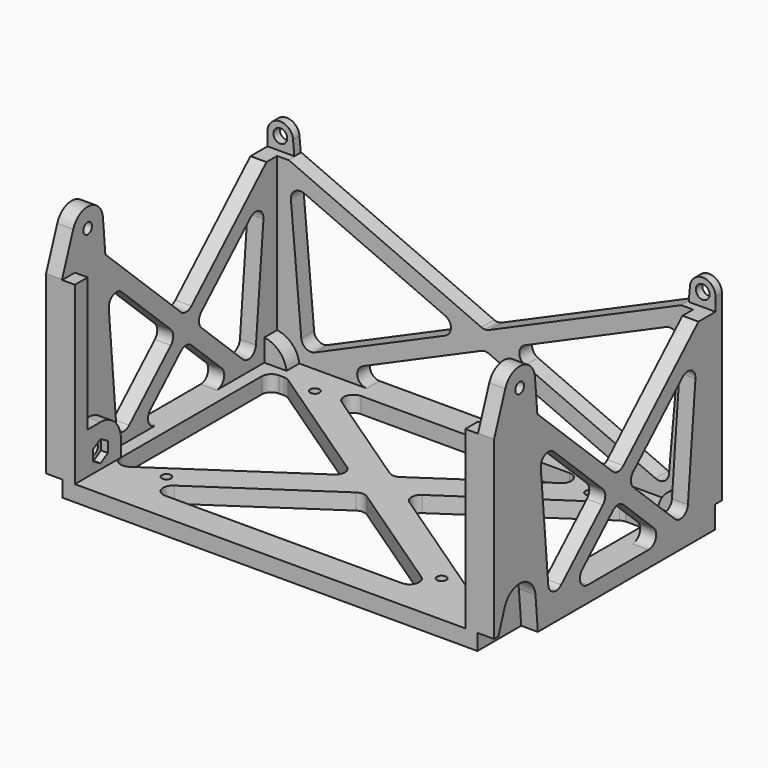
from build123d import *

# Parameters (mm, degrees)
SKETCH_W        = 110
SKETCH_H        = 84
PAD_DEPTH       = 5
SKETCH001_R     = 1.45
HOLE_DEPTH      = 5.001
SKETCH002_W     = 84
SKETCH002_H     = 5
PAD001_DEPTH    = 10
POCKET_DEPTH    = 5.001
SKETCH005_W     = 84
SKETCH005_H     = 5
PAD002_DEPTH    = 5
SKETCH006_W     = 140
SKETCH006_H     = 5
PAD003_DEPTH    = 5
SKETCH007_W     = 5
SKETCH007_H     = 5
PAD004_DEPTH    = 55
PAD005_DEPTH    = 5
SKETCH010_W     = 4
SKETCH010_H     = 55
PAD006_DEPTH    = 5
PAD007_DEPTH    = 4
POCKET001_DEPTH = 5.2
SKETCH012_R     = 1.7
HOLE001_DEPTH   = 504.9503115489
POCKET002_DEPTH = 2.15
SKETCH014_R     = 1.7
HOLE002_DEPTH   = 371.8003115489
PAD008_DEPTH    = 5
SKETCH016_R     = 2.15
POCKET003_DEPTH = 5
PAD009_DEPTH    = 5
PAD010_DEPTH    = 5
POCKET004_DEPTH = 2.7
SKETCH020_R     = 1.85
PAD011_DEPTH    = 2
SKETCH021_W     = 8.3652340043
SKETCH021_H     = 8
POCKET005_DEPTH = 2.5
PAD012_DEPTH    = 5
PAD013_DEPTH    = 5
SKETCH024_W     = 4
SKETCH024_H     = 5
POCKET006_DEPTH = 0.15
POCKET007_DEPTH = 1.75


with BuildPart() as part:
    # Sketch → Pad (new body)
    with BuildSketch(Plane.XY):
        Rectangle(SKETCH_W, SKETCH_H)
    extrude(amount=PAD_DEPTH)

    # Sketch001 (on Face6 of Pad) → Hole (cut, through all)
    with BuildSketch(Plane.XY.offset(5)):
        with Locations((-46, 33)):
            Circle(SKETCH001_R)
        with Locations((40, 33)):
            Circle(SKETCH001_R)
        with Locations((40, -25)):
            Circle(SKETCH001_R)
        with Locations((-46, -25)):
            Circle(SKETCH001_R)
    extrude(amount=-HOLE_DEPTH, mode=Mode.SUBTRACT)

    # Sketch002 (on Face2 of Hole) → Pad001 (join)
    with BuildSketch(Plane(origin=(-55, 0, 0), x_dir=(0, -1, 0), z_dir=(-1, 0, 0))):
        with Locations((0, 2.5)):
            Rectangle(SKETCH002_W, SKETCH002_H)
    pad001 = extrude(amount=PAD001_DEPTH)

    # Mirrored: Pad001 across YZ
    add(pad001.mirror(Plane.YZ))

    # Sketch004 → Pocket (cut, through all)
    with BuildSketch(Plane.XY.offset(5)):
        with BuildLine():
            Line((29.5521008829, 38), (-35.5521008829, 38))
            ThreePointArc((-35.5521008829, 38), (-38.421042252, 35.877026465), (-37.2295258877, 32.5127836135))
            Line((-37.2295258877, 32.5127836135), (-4.6774250048, 10.5590411576))
            ThreePointArc((-4.6774250048, 10.5590411576), (-3, 10.0462575441), (-1.3225749952, 10.5590411576))
            Line((31.2295258877, 32.5127836135), (-1.3225749952, 10.5590411576))
            ThreePointArc((31.2295258877, 32.5127836135), (32.421042252, 35.877026465), (29.5521008829, 38))
        make_face()
        with BuildLine():
            Line((-54.7704741123, 33.4872163865), (-14.7359913537, 6.4872163865))
            ThreePointArc((-14.7359913537, 1.5127836135), (-13.4134163585, 4), (-14.7359913537, 6.4872163865))
            Line((-14.7359913537, 1.5127836135), (-56.3225749952, -26.5339820982))
            ThreePointArc((-61, -24.0467657117), (-59.4084965363, -26.6955649693), (-56.3225749952, -26.5339820982))
            Line((-61, 31), (-61, -24.0467657117))
            ThreePointArc((-58, 34), (-60.1213203436, 33.1213203436), (-61, 31))
            Line((-58, 34), (-56.4478991171, 34))
            ThreePointArc((-54.7704741123, 33.4872163865), (-55.5708726521, 33.8689413692), (-56.4478991171, 34))
        make_face()
        with BuildLine():
            Line((48.7704741123, 33.4872163865), (8.7359913537, 6.4872163865))
            ThreePointArc((8.7359913537, 6.4872163865), (7.4134163585, 4), (8.7359913537, 1.5127836135))
            Line((8.7359913537, 1.5127836135), (56.3225749952, -30.5804937261))
            ThreePointArc((56.3225749952, -30.5804937261), (59.4084965363, -30.7420765972), (61, -28.0932773396))
            Line((61, 31), (61, -28.0932773396))
            ThreePointArc((61, 31), (60.1213203436, 33.1213203436), (58, 34))
            Line((50.4478991171, 34), (58, 34))
            ThreePointArc((50.4478991171, 34), (49.5708726521, 33.8689413692), (48.7704741123, 33.4872163865))
        make_face()
        with BuildLine():
            Line((-40.0003767449, -33), (34.0003767449, -33))
            ThreePointArc((34.0003767449, -33), (36.8693181141, -30.877026465), (35.6778017498, -27.5127836135))
            Line((-1.3225749952, -2.5590411576), (35.6778017498, -27.5127836135))
            ThreePointArc((-1.3225749952, -2.5590411576), (-3, -2.0462575441), (-4.6774250048, -2.5590411576))
            Line((-4.6774250048, -2.5590411576), (-41.6778017498, -27.5127836135))
            ThreePointArc((-41.6778017498, -27.5127836135), (-42.8693181141, -30.877026465), (-40.0003767449, -33))
        make_face()
    extrude(amount=-POCKET_DEPTH, mode=Mode.SUBTRACT)

    # Sketch005 (on Face8 of Pocket) → Pad002 (join)
    with BuildSketch(Plane(origin=(-65, 0, 0), x_dir=(0, -1, 0), z_dir=(-1, 0, 0))):
        with Locations((0, 2.5)):
            Rectangle(SKETCH005_W, SKETCH005_H)
    pad002 = extrude(amount=PAD002_DEPTH)

    # Mirrored002: Pad002 across YZ
    add(pad002.mirror(Plane.YZ))

    # Sketch006 (on Face16 of Mirrored002) → Pad003 (join)
    with BuildSketch(Plane(origin=(0, 42, 0), x_dir=(-1, 0, 0), z_dir=(0, 1, 0))):
        with Locations((0, 2.5)):
            Rectangle(SKETCH006_W, SKETCH006_H)
    extrude(amount=PAD003_DEPTH)

    # Sketch007 (on Face5 of Pad003) → Pad004 (join)
    with BuildSketch(Plane.XY.offset(5)):
        with Locations((-67.5, -39.5)):
            Rectangle(SKETCH007_W, SKETCH007_H)
        with Locations((-67.5, 44.5)):
            Rectangle(SKETCH007_W, SKETCH007_H)
    pad004 = extrude(amount=PAD004_DEPTH)

    # Mirrored003: Pad004 across Sketch007 V_Axis
    add(pad004.mirror(Plane(origin=(0, 0, 5), x_dir=(0, 0, 1), z_dir=(1, 0, 0))))

    # Sketch008 (on Face64 of Mirrored003) → Pad005 (join)
    with BuildSketch(Plane(origin=(-70, 0, 0), x_dir=(0, -1, 0), z_dir=(-1, 0, 0))):
        with BuildLine():
            ThreePointArc((37.6418745425, 72.0418745425), (31.222246695, 75.9493781017), (26.0228318114, 70.5229344565))
            Line((26.0228318114, 70.5229344565), (20.2903178456, 5))
            Line((20.2903178456, 5), (37, 5))
            Line((37, 5), (37, 60))
            Line((42, 60), (37, 60))
            Line((37.6418745425, 72.0418745425), (42, 60))
        make_face()
    pad005 = extrude(amount=-PAD005_DEPTH)

    # Sketch010 (on Face47 of Pad005) → Pad006 (join)
    with BuildSketch(Plane.XZ.offset(42)):
        with Locations((-63, 32.5)):
            Rectangle(SKETCH010_W, SKETCH010_H)
    pad006 = extrude(amount=-PAD006_DEPTH)

    # Sketch011 (on Face46 of Pad006) → Pad007 (join)
    with BuildSketch(Plane.YZ.offset(-65)):
        with BuildLine():
            ThreePointArc((-24, 10), (-26.3431457505, 15.6568542495), (-32, 18))
            Line((-32, 18), (-37, 18))
            Line((-37, 18), (-37, 5))
            Line((-37, 5), (-24, 5))
            Line((-24, 5), (-24, 10))
        make_face()
    pad007 = extrude(amount=PAD007_DEPTH)

    # Sketch009 (on Face66 of Pad005) → Pocket001 (cut)
    with BuildSketch(Plane(origin=(-70, 0, 0), x_dir=(0, -1, 0), z_dir=(-1, 0, 0))):
        with BuildLine():
            ThreePointArc((37.8517342553, 12.0487084238), (31.2285548411, 16.1518186227), (25.8235928718, 10.5403656051))
            Line((25.8235928718, 10.5403656051), (24.9014303719, 0))
            Line((24.9014303719, 0), (42, 0))
            Line((42, 0), (42, 0.2))
            Line((42, 5), (42, 0.2))
            Line((42, 5), (40.3195066616, 5))
            Line((37.8517342553, 12.0487084238), (40.3195066616, 5))
        make_face()
    pocket001 = extrude(amount=-POCKET001_DEPTH, mode=Mode.SUBTRACT)

    # Sketch012 (on Face73 of Pocket001) → Hole001 (cut, through all)
    with BuildSketch(Plane(origin=(-70, 0, 0), x_dir=(0, -1, 0), z_dir=(-1, 0, 0))):
        with Locations((32, 70)):
            Circle(SKETCH012_R)
    hole001 = extrude(amount=-HOLE001_DEPTH, mode=Mode.SUBTRACT)

    # Sketch013 (on Face42 of Hole001) → Pocket002 (cut)
    with BuildSketch(Plane.YZ.offset(-61)):
        Polygon((-32, 13.3486315613), (-34.9, 11.6743157806), (-34.9, 8.3256842194), (-32, 6.6513684387), (-29.1, 8.3256842194), (-29.1, 11.6743157806), align=None)
    pocket002 = extrude(amount=-POCKET002_DEPTH, mode=Mode.SUBTRACT)

    # Sketch014 (on Face97 of Pocket002) → Hole002 (cut, through all)
    with BuildSketch(Plane.YZ.offset(-63.15)):
        with Locations((-32, 10)):
            Circle(SKETCH014_R)
    hole002 = extrude(amount=-HOLE002_DEPTH, mode=Mode.SUBTRACT)

    # Mirrored004: Pad005, Pad006, Pad007, Pocket001, Hole001, Pocket002, Hole002 across YZ
    add(pad005.mirror(Plane.YZ))
    add(pad006.mirror(Plane.YZ))
    add(pad007.mirror(Plane.YZ))
    add(pocket001.mirror(Plane.YZ), mode=Mode.SUBTRACT)
    add(hole001.mirror(Plane.YZ), mode=Mode.SUBTRACT)
    add(pocket002.mirror(Plane.YZ), mode=Mode.SUBTRACT)
    add(hole002.mirror(Plane.YZ), mode=Mode.SUBTRACT)

    # Sketch015 (on Face111 of Mirrored004) → Pad008 (join)
    with BuildSketch(Plane(origin=(0, 47, 0), x_dir=(-1, 0, 0), z_dir=(0, 1, 0))):
        with BuildLine():
            Line((56.8228895018, 5), (65, 5))
            Line((65, 60), (65, 5))
            Line((65, 60), (70, 60))
            Line((70, 60), (70, 64))
            ThreePointArc((70, 64), (66.1744775495, 67.9961928863), (62.0152212076, 64.348622971))
            Line((56.8228895018, 5), (62.0152212076, 64.348622971))
        make_face()
    pad008 = extrude(amount=-PAD008_DEPTH)

    # Sketch016 (on Face113 of Pad008) → Pocket003 (cut)
    with BuildSketch(Plane(origin=(0, 47, 0), x_dir=(-1, 0, 0), z_dir=(0, 1, 0))):
        with Locations((66, 64)):
            Circle(SKETCH016_R)
    pocket003 = extrude(amount=-POCKET003_DEPTH, mode=Mode.SUBTRACT)

    # Sketch017 (on Face111 of Pocket003) → Pad009 (join)
    with BuildSketch(Plane(origin=(-70, 0, 0), x_dir=(0, -1, 0), z_dir=(-1, 0, 0))):
        Polygon((-42, 60), (-42, 5), (-33.1881235061, 5), (-38, 60), align=None)
    pad009 = extrude(amount=-PAD009_DEPTH)

    # Sketch018 (on Face73 of Pad009) → Pad010 (join)
    with BuildSketch(Plane.XZ.offset(-42)):
        with BuildLine():
            ThreePointArc((-58.0627460668, 5), (-60.3431457505, 9.6568542495), (-65, 11.9372539332))
            Line((-65, 11.9372539332), (-65, 5))
            Line((-65, 5), (-58.0627460668, 5))
        make_face()
    pad010 = extrude(amount=PAD010_DEPTH)

    # Sketch019 (on Face72 of Pad010) → Pocket004 (cut)
    with BuildSketch(Plane(origin=(0, 47, 0), x_dir=(-1, 0, 0), z_dir=(0, 1, 0))):
        with BuildLine():
            ThreePointArc((69, 6.9393876913), (64.5836716781, 7.9539871124), (61.815982268, 4.3660541195))
            Line((61.815982268, 4.3660541195), (61.4340020282, 0))
            Line((70, 0), (61.4340020282, 0))
            Line((70, 6.9393876913), (70, 0))
            Line((69, 6.9393876913), (70, 6.9393876913))
        make_face()
    pocket004 = extrude(amount=-POCKET004_DEPTH, mode=Mode.SUBTRACT)

    # Sketch020 (on Face71 of Pocket004) → Pad011 (join)
    with BuildSketch(Plane(origin=(0, 44.3, 0), x_dir=(-1, 0, 0), z_dir=(0, 1, 0))):
        with Locations((66, 4)):
            Circle(SKETCH020_R)
    pad011 = extrude(amount=PAD011_DEPTH)

    # Sketch021 (on Face75 of Pad011) → Pocket005 (cut)
    with BuildSketch(Plane.XZ.offset(-42)):
        with Locations((-65.8173829979, 64)):
            Rectangle(SKETCH021_W, SKETCH021_H)
    pocket005 = extrude(amount=-POCKET005_DEPTH, mode=Mode.SUBTRACT)

    # Mirrored005: Pad008, Pocket003, Pad009, Pad010, Pocket004, Pad011, Pocket005 across YZ
    add(pad008.mirror(Plane.YZ))
    add(pocket003.mirror(Plane.YZ), mode=Mode.SUBTRACT)
    add(pad009.mirror(Plane.YZ))
    add(pad010.mirror(Plane.YZ))
    add(pocket004.mirror(Plane.YZ), mode=Mode.SUBTRACT)
    add(pad011.mirror(Plane.YZ))
    add(pocket005.mirror(Plane.YZ), mode=Mode.SUBTRACT)

    # Sketch022 (on Face91 of Mirrored005) → Pad012 (join)
    with BuildSketch(Plane(origin=(-70, 0, 0), x_dir=(0, -1, 0), z_dir=(-1, 0, 0))):
        with BuildLine():
            Line((-38, 60), (-8.5077450151, 32.1724964947))
            ThreePointArc((-8.5077450151, 32.1724964947), (-6.4489028303, 31.3545067738), (-4.3900606454, 32.1724964947))
            Line((-4.3900606454, 32.1724964947), (25.1021943395, 60))
            Line((23.7594787595, 44.6526906928), (25.1021943395, 60))
            ThreePointArc((23.7594787595, 44.6526906928), (22.0780865359, 47.6143892839), (18.7120524804, 47.0961682001))
            Line((18.7120524804, 47.0961682001), (-0.4935319193, 28.9746828313))
            ThreePointArc((-0.4935319193, 28.9746828313), (-1.4346897344, 26.7926725522), (-0.4935319193, 24.6106622732))
            Line((-0.4935319193, 24.6106622732), (15.7829974422, 9.2528953581))
            ThreePointArc((15.7829974422, 9.2528953581), (18.9087165679, 8.6310201914), (20.8304237213, 11.1734384089))
            Line((20.8304237213, 11.1734384089), (20.2903178456, 5))
            Line((5.4538087328, 5), (20.2903178456, 5))
            ThreePointArc((5.4538087328, 5), (8.241821541, 6.8923066393), (7.5126509176, 10.1820102791))
            Line((-4.3900606454, 21.4128486097), (7.5126509176, 10.1820102791))
            ThreePointArc((-4.3900606454, 21.4128486097), (-6.4489028303, 22.2308383307), (-8.5077450151, 21.4128486097))
            Line((-8.5077450151, 21.4128486097), (-20.4104565781, 10.1820102791))
            ThreePointArc((-20.4104565781, 10.1820102791), (-21.1396272015, 6.8923066393), (-18.3516143933, 5))
            Line((-18.3516143933, 5), (-33.1881235061, 5))
            Line((-33.7282293818, 11.1734384089), (-33.1881235061, 5))
            ThreePointArc((-33.7282293818, 11.1734384089), (-31.8065222285, 8.6310201914), (-28.6808031027, 9.2528953581))
            Line((-28.6808031027, 9.2528953581), (-12.4042737412, 24.6106622732))
            ThreePointArc((-12.4042737412, 24.6106622732), (-11.4631159261, 26.7926725522), (-12.4042737412, 28.9746828313))
            Line((-31.6098581409, 47.0961682001), (-12.4042737412, 28.9746828313))
            ThreePointArc((-31.6098581409, 47.0961682001), (-34.9758921964, 47.6143892839), (-36.65728442, 44.6526906928))
            Line((-38, 60), (-36.65728442, 44.6526906928))
        make_face()
    pad012 = extrude(amount=-PAD012_DEPTH)

    # Mirrored006: Pad012 across YZ
    add(pad012.mirror(Plane.YZ))

    # Sketch023 (on Face64 of Mirrored006) → Pad013 (join)
    with BuildSketch(Plane(origin=(0, 47, 0), x_dir=(-1, 0, 0), z_dir=(0, 1, 0))):
        with BuildLine():
            Line((1.2053426067, 26.9686911552), (38.1772223727, 10.7472075277))
            ThreePointArc((36.971879766, 5), (39.9080015775, 7.3842169957), (38.1772223727, 10.7472075277))
            Line((36.971879766, 5), (56.8228895018, 5))
            Line((57.4423544909, 12.0805172256), (56.8228895018, 5))
            ThreePointArc((53.2484277899, 9.5947769261), (55.9833826874, 9.7612314164), (57.4423544909, 12.0805172256))
            Line((12.4837113669, 27.4803749596), (53.2484277899, 9.5947769261))
            ThreePointArc((12.4837113669, 32.974790015), (10.6890539736, 30.2275824873), (12.4837113669, 27.4803749596))
            Line((56.5029286093, 52.2883065663), (12.4837113669, 32.974790015))
            ThreePointArc((60.6968553103, 49.2796318103), (59.456990318, 51.9787170362), (56.5029286093, 52.2883065663))
            Line((60.6968553103, 49.2796318103), (61.6347659957, 60))
            Line((1.2053426067, 33.4864738194), (61.6347659957, 60))
            ThreePointArc((0, 33.2336813471), (0.6157830043, 33.2975595357), (1.2053426067, 33.4864738194))
            Line((0, 27.2214836275), (0, 33.2336813471))
            ThreePointArc((1.2053426067, 26.9686911552), (0.6157830043, 27.1576054389), (0, 27.2214836275))
        make_face()
    pad013 = extrude(amount=-PAD013_DEPTH)

    # Mirrored007: Pad013 across YZ
    add(pad013.mirror(Plane.YZ))

    # Sketch024 (on Face194 of Mirrored007) → Pocket006 (cut)
    with BuildSketch(Plane.XY.offset(60)):
        Polygon((-70, -25.1021943395), (-70, 44.5), (-61.6347659957, 44.5), (-61.6347659957, 47), (-46.6347659957, 47), (-46.6347659957, -25.1021943395), align=None)
        with Locations((-63, -39.5)):
            Rectangle(SKETCH024_W, SKETCH024_H)
    pocket006 = extrude(amount=-POCKET006_DEPTH, mode=Mode.SUBTRACT)

    # Mirrored008: Pocket006 across YZ
    add(pocket006.mirror(Plane.YZ), mode=Mode.SUBTRACT)

    # Sketch025 (on Face80 of Mirrored008) → Pocket007 (cut)
    with BuildSketch(Plane(origin=(0, 0, 0), x_dir=(1, 0, 0), z_dir=(0, 0, -1))):
        Polygon((-43.375, 26.5155444566), (-46, 28.0310889132), (-48.625, 26.5155444566), (-48.625, 23.4844555434), (-46, 21.9689110868), (-43.375, 23.4844555434), align=None)
        Polygon((37.375, 23.4844555434), (40, 21.9689110868), (42.625, 23.4844555434), (42.625, 26.5155444566), (40, 28.0310889132), (37.375, 26.5155444566), align=None)
        Polygon((40, -29.9689110868), (37.375, -31.4844555434), (37.375, -34.5155444566), (40, -36.0310889132), (42.625, -34.5155444566), (42.625, -31.4844555434), align=None)
        Polygon((-43.375, -31.4844555434), (-46, -29.9689110868), (-48.625, -31.4844555434), (-48.625, -34.5155444566), (-46, -36.0310889132), (-43.375, -34.5155444566), align=None)
    extrude(amount=-POCKET007_DEPTH, mode=Mode.SUBTRACT)


solid = part.part
